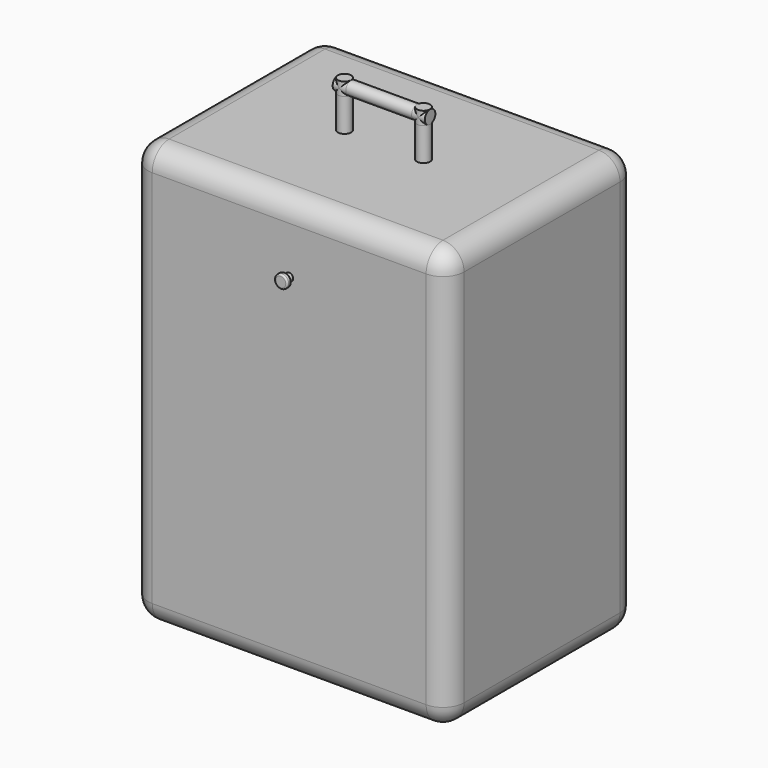
from build123d import *

# Parameters (mm, degrees)
F0_W      = 600
F0_H      = 450
F1_DEPTH  = 800
F2_R      = 40
F3_R      = 12.5
F4_DEPTH  = 75
F5_R      = 12.5
F7_DEPTH  = 12.5
F8_DEPTH  = 12.5
F9_DEPTH  = 12.5
F6_R      = 12.5
F10_DEPTH = 62.5
F11_DEPTH = 62.5
F12_DEPTH = 12.5
F13_DEPTH = 25
F14_DEPTH = 25
F15_DEPTH = 25
F16_DEPTH = 25
F18_R     = 7.5
F19_DEPTH = 10
F20_R     = 12.5
F20_R_2   = 7.5
F21_DEPTH = 10
F22_R     = 3
F23_R     = 3


with BuildPart() as f1:
    # F0 (on Top) → F1 (new body)
    with BuildSketch(Plane.XY):
        Rectangle(F0_W, F0_H)
    extrude(amount=F1_DEPTH)

    # F2
    f2_edges = [f1.edges().sort_by_distance(p)[0] for p in [
        (-300, -225, 400),
        (300, -225, 400),
        (0, -225, 0),
        (0, -225, 800),
        (300, 0, 800),
        (0, 225, 800),
        (-300, 0, 800),
        (300, 225, 400),
        (-300, 225, 400),
        (0, 225, 0),
        (300, 0, 0),
        (-300, 0, 0),
    ]]
    fillet(f2_edges, radius=F2_R)

    # F3 (on face) → F4 (join)
    with BuildSketch(Plane.XY.offset(800)):
        with Locations((-75, 0)):
            Circle(F3_R)
        with Locations((75, 0)):
            Circle(F3_R)
    extrude(amount=F4_DEPTH)

    # F5 (on face) → F7 (join)
    with BuildSketch(Plane.XY.offset(875)):
        with Locations((-75, 0)):
            Circle(F5_R)
    extrude(amount=-F7_DEPTH)

    # F8 (add): a face of the model
    f8_faces = [f1.faces().sort_by_distance(p)[0] for p in [
        (-75, 0, 875),
    ]]
    extrude(f8_faces, amount=-F8_DEPTH)

    # F9 (cut): a face of the model
    f9_faces = [f1.faces().sort_by_distance(p)[0] for p in [
        (-75, 0, 875),
    ]]
    extrude(f9_faces, amount=-F9_DEPTH, mode=Mode.SUBTRACT)



with BuildPart() as f10:
    # F6 (on Right) → F10 (new body)
    with BuildSketch(Plane.YZ):
        with Locations((0, 875)):
            Circle(F6_R)
    extrude(amount=-F10_DEPTH)


with BuildPart() as f1_1:
    add(f1.part)
    # F11 (add): a face of the model
    f11_faces = [f10.part.faces().sort_by_distance(p)[0] for p in [
        (0, 0, 875),
    ]]

    add(f10.part)  # F11 merges F10
    extrude(f11_faces, amount=F11_DEPTH)

    # F12 (cut): a face of the model
    f12_faces = [f1_1.faces().sort_by_distance(p)[0] for p in [
        (75, 0, 875),
    ]]
    extrude(f12_faces, amount=-F12_DEPTH, mode=Mode.SUBTRACT)

    # F13 (add): a face of the model
    f13_faces = [f1_1.faces().sort_by_distance(p)[0] for p in [
        (62.5, -8.5888347648, 883.5888347648),
    ]]
    extrude(f13_faces, amount=F13_DEPTH)


with BuildPart() as f14:
    # F14 (new): faces of the model
    f14_faces = [f1_1.part.faces().sort_by_distance(p)[0] for p in [
        (75, 5.3051647697, 862.5),
        (75, -5.3051647697, 862.5),
    ]]
    extrude(f14_faces, amount=F14_DEPTH)


with BuildPart() as f1_2:
    add(f1_1.part)

    # F15 (add): a face of the model
    f15_faces = [f1_2.faces().sort_by_distance(p)[0] for p in [
        (-62.5, 0, 875),
    ]]
    extrude(f15_faces, amount=F15_DEPTH)


with BuildPart() as f16:
    # F16 (new): faces of the model
    f16_faces = [f1_2.part.faces().sort_by_distance(p)[0] for p in [
        (-75, 5.3051647697, 862.5),
        (-75, -5.3051647697, 862.5),
    ]]
    extrude(f16_faces, amount=F16_DEPTH)


with BuildPart() as f1_3:
    add(f1_2.part)

    # F18 (on face) → F19 (join)
    with BuildSketch(Plane.XZ.offset(225)):
        with Locations((0, 670)):
            Circle(F18_R)
    extrude(amount=F19_DEPTH)

    # F20 (on face) → F21 (join)
    with BuildSketch(Plane.XZ.offset(235)):
        with Locations((0, 670)):
            Circle(F20_R)
        with Locations((0, 670)):
            Circle(F20_R_2, mode=Mode.SUBTRACT)
        with Locations((0, 670)):
            Circle(F20_R_2)
    extrude(amount=F21_DEPTH)

    # F22
    f22_edges = [f1_3.edges().sort_by_distance(p)[0] for p in [
        (-12.5, -245, 670),
    ]]
    fillet(f22_edges, radius=F22_R)

    # F23
    f23_edges = [f1_3.edges().sort_by_distance(p)[0] for p in [
        (-12.5, -235, 670),
    ]]
    fillet(f23_edges, radius=F23_R)


solid = Compound([f14.part, f16.part, f1_3.part])
